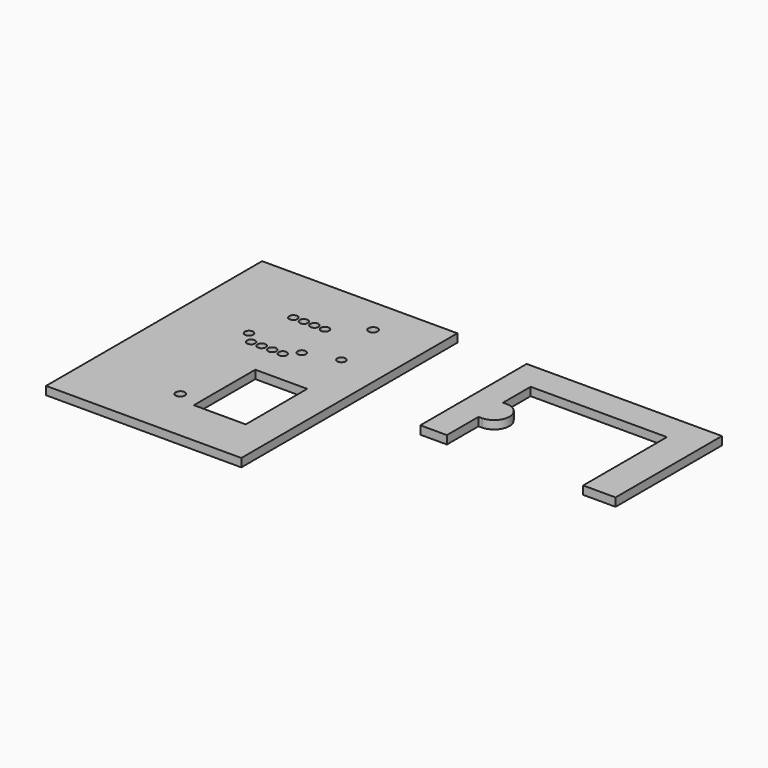
from build123d import *

# Parameters (mm, degrees)
F0_W     = 47
F0_H     = 65
F0_R     = 1.1
F0_W_2   = 12.5
F0_H_2   = 18.5
F0_R_2   = 1
F1_DEPTH = 2
F2_DEPTH = 2


with BuildPart() as f1:
    # F0 (on Top) → F1 (new body)
    with BuildSketch(Plane.XY):
        with Locations((-84.88592, -16.223743)):
            Rectangle(F0_W, F0_H)
        with Locations((-86.63592, -35.529743)):
            Circle(F0_R, mode=Mode.SUBTRACT)
        with Locations((-75.53592, -28.273743)):
            Rectangle(F0_W_2, F0_H_2, mode=Mode.SUBTRACT)
        with Locations((-89.45592, -10.696743)):
            Circle(F0_R_2, mode=Mode.SUBTRACT)
        with Locations((-91.99592, -8.156743)):
            Circle(F0_R_2, mode=Mode.SUBTRACT)
        with Locations((-86.91592, -10.696743)):
            Circle(F0_R_2, mode=Mode.SUBTRACT)
        with Locations((-84.37592, -10.696743)):
            Circle(F0_R_2, mode=Mode.SUBTRACT)
        with Locations((-81.83592, -10.696743)):
            Circle(F0_R_2, mode=Mode.SUBTRACT)
        with Locations((-79.29592, -8.156743)):
            Circle(F0_R_2, mode=Mode.SUBTRACT)
        with Locations((-71.64592, -5.782441)):
            Circle(F0_R_2, mode=Mode.SUBTRACT)
        with Locations((-89.45592, 2.003257)):
            Circle(F0_R_2, mode=Mode.SUBTRACT)
        with Locations((-86.91592, 2.003257)):
            Circle(F0_R_2, mode=Mode.SUBTRACT)
        with Locations((-84.37592, 2.003257)):
            Circle(F0_R_2, mode=Mode.SUBTRACT)
        with Locations((-81.83592, 2.003257)):
            Circle(F0_R_2, mode=Mode.SUBTRACT)
        with Locations((-74.63592, 7.473257)):
            Circle(F0_R, mode=Mode.SUBTRACT)
    extrude(amount=F1_DEPTH)


with BuildPart() as f2:
    # F0 (on Top) → F2 (new body)
    with BuildSketch(Plane.XY):
        with BuildLine():
            Line((-43.430672, 14.680812), (-43.430672, -17.319188))
            Line((-43.430672, -17.319188), (-37.030672, -17.319188))
            Line((-37.030672, -17.319188), (-37.030672, -7.819188))
            Line((-37.030672, -7.819188), (-36.230672, -7.819188))
            ThreePointArc((-36.230672, -7.819188), (-32.530672, -4.119188), (-36.230672, -0.419188))
            Line((-36.230672, -0.419188), (-37.030672, -0.419188))
            Line((-37.030672, -0.419188), (-37.030672, 7.880812))
            Line((-37.030672, 7.880812), (-4.230672, 7.880812))
            Line((-4.230672, 7.880812), (-4.230672, -17.319188))
            Line((-4.230672, -17.319188), (3.569328, -17.319188))
            Line((3.569328, -17.319188), (3.569328, 14.680812))
            Line((3.569328, 14.680812), (-43.430672, 14.680812))
        make_face()
    extrude(amount=F2_DEPTH)


solid = Compound([f1.part, f2.part])
